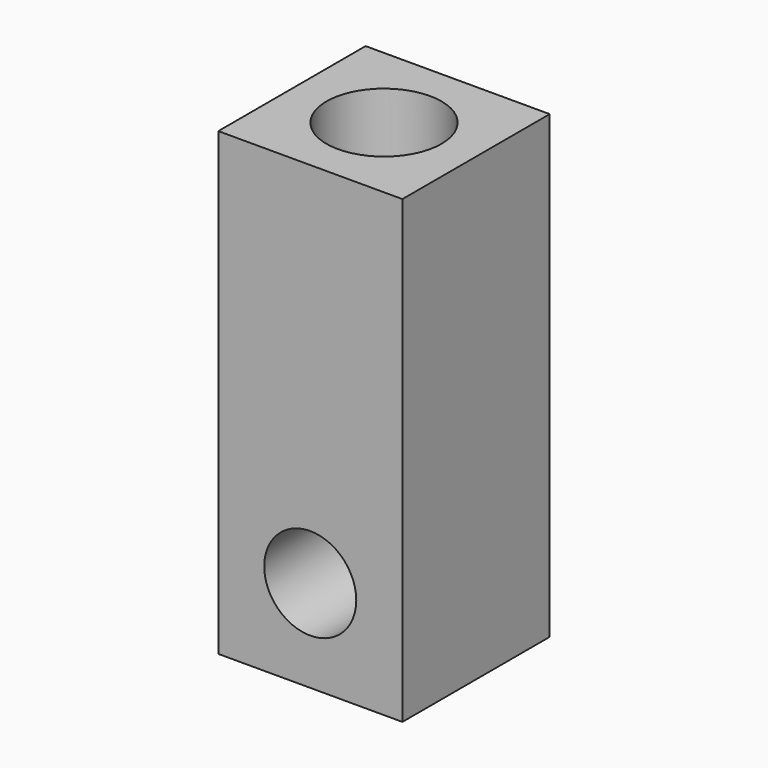
from build123d import *

# Parameters (mm, degrees)
F0_W     = 5.08
F0_H     = 5.08
F1_DEPTH = 12.7
F2_R     = 1.27
F3_DEPTH = 5.081
F4_R     = 1.5875
F5_DEPTH = 7.62


with BuildPart() as f1:
    # F0 (on Top) → F1 (new body)
    with BuildSketch(Plane.XY):
        with Locations((-2.54, 2.54)):
            Rectangle(F0_W, F0_H)
    extrude(amount=F1_DEPTH)

    # F2 (on face) → F3 (cut, through all)
    with BuildSketch(Plane.XZ):
        with Locations((-2.543417, 2.54)):
            Circle(F2_R)
    extrude(amount=-F3_DEPTH, mode=Mode.SUBTRACT)

    # F4 (on face) → F5 (cut)
    with BuildSketch(Plane.XY.offset(12.7)):
        with Locations((-2.54, 2.54)):
            Circle(F4_R)
    extrude(amount=-F5_DEPTH, mode=Mode.SUBTRACT)


solid = f1.part
